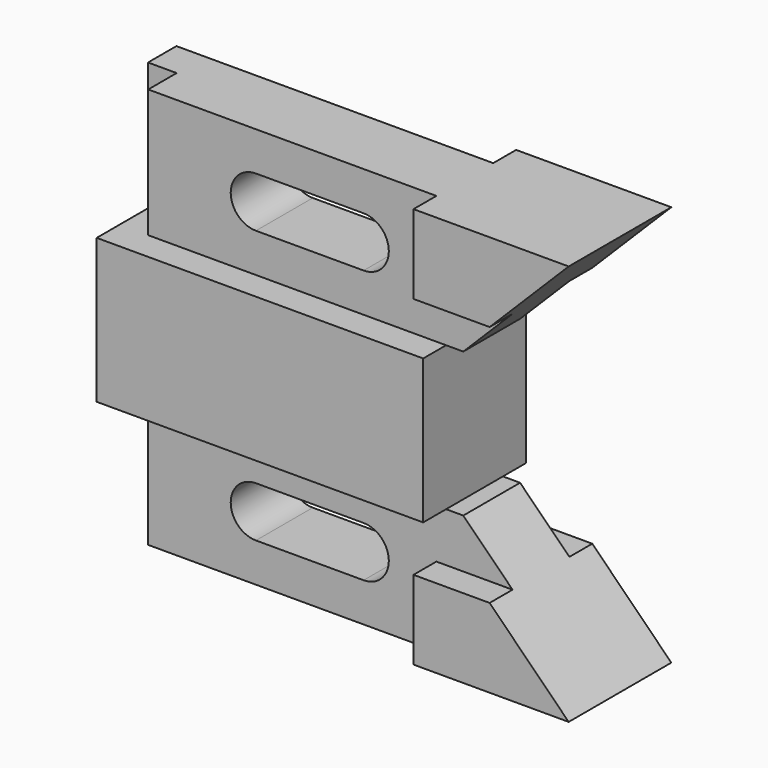
from build123d import *

# Parameters (mm, degrees)
F1_DEPTH = 14.224
F2_DEPTH = 7.874
F3_DEPTH = 14.224
F0_W     = 6.35
F0_H     = 28.448
F4_DEPTH = 7.874


with BuildPart() as f1:
    # F0 (on Front) → F1 (new body, symmetric)
    with BuildSketch(Plane.XZ):
        Polygon((-4.571382422, -16.002), (-4.571382422, 16.002), (-70.6115919133, 16.002), (-76.9615919133, 16.002), (-76.9615919133, -16.002), (-70.6115919133, -16.002), align=None)
    extrude(amount=F1_DEPTH, both=True)

    # F0 (on Front) → F2 (join, symmetric)
    with BuildSketch(Plane.XZ):
        Polygon((-4.571382422, 16.002), (-0.7615919133, 16.002), (10.1604080867, 26.924), (-6.7215473391, 26.924), (-6.7215473391, 44.45), (-70.6115919133, 44.45), (-70.6115919133, 16.002), align=None)
        with BuildLine():
            ThreePointArc((-22.8595919133, 35.814), (-17.2715919133, 30.226), (-22.8595919133, 24.638))
            Line((-22.8595919133, 24.638), (-46.7355919133, 24.638))
            ThreePointArc((-46.7355919133, 24.638), (-52.3235919133, 30.226), (-46.7355919133, 35.814))
            Line((-46.7355919133, 35.814), (-22.8595919133, 35.814))
        make_face(mode=Mode.SUBTRACT)
        Polygon((-0.7615919133, -16.002), (-4.571382422, -16.002), (-70.6115919133, -16.002), (-70.6115919133, -44.45), (-6.7215473391, -44.45), (-6.7215473391, -26.924), (10.1604080867, -26.924), align=None)
        with BuildLine():
            Line((-22.8595919133, -35.814), (-46.7355919133, -35.814))
            ThreePointArc((-46.7355919133, -35.814), (-52.3235919133, -30.226), (-46.7355919133, -24.638))
            Line((-46.7355919133, -24.638), (-22.8595919133, -24.638))
            ThreePointArc((-22.8595919133, -24.638), (-17.2715919133, -30.226), (-22.8595919133, -35.814))
        make_face(mode=Mode.SUBTRACT)
    extrude(amount=F2_DEPTH, both=True)

    # F0 (on Front) → F3 (join, symmetric)
    with BuildSketch(Plane.XZ):
        Polygon((27.6864080867, -44.45), (10.1604080867, -26.924), (-6.7215473391, -26.924), (-6.7215473391, -44.45), align=None)
        Polygon((-6.7215473391, 26.924), (10.1604080867, 26.924), (27.6864080867, 44.45), (-6.7215473391, 44.45), align=None)
    extrude(amount=F3_DEPTH, both=True)

    # F0 (on Front) → F4 (join)
    with BuildSketch(Plane.XZ):
        with Locations((-73.7865919133, 30.226)):
            Rectangle(F0_W, F0_H)
        with Locations((-73.7865919133, -30.226)):
            Rectangle(F0_W, F0_H)
    extrude(amount=-F4_DEPTH)


solid = f1.part
